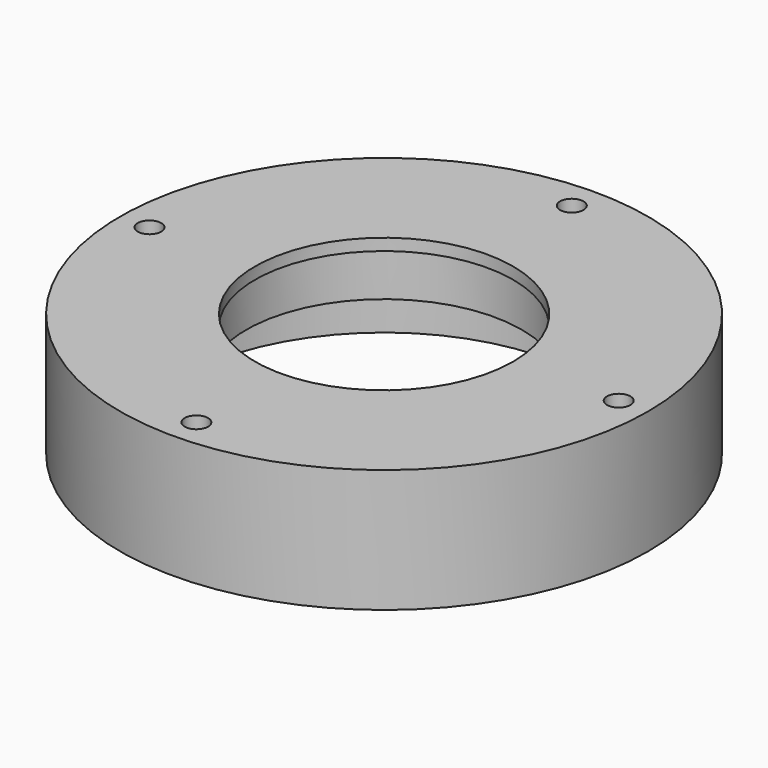
from build123d import *

# Parameters (mm, degrees)
F0_R        = 23.5
F0_R_2      = 22
F1_DEPTH    = 2
F2_R        = 45
F2_R_2      = 23.5
F3_DEPTH    = 10
F4_R        = 35
F4_R_2      = 27.5
F5_DEPTH    = 6
F5_FACE_R   = 45
F5_FACE_R_2 = 35
F6_DEPTH    = 11
F7_R        = 2
F8_DEPTH    = 21.001


with BuildPart() as f1:
    # F0 (on Top) → F1 (new body)
    with BuildSketch(Plane.XY):
        with Locations((10, 29.8)):
            Circle(F0_R)
        with Locations((10, 29.8)):
            Circle(F0_R_2, mode=Mode.SUBTRACT)
    extrude(amount=F1_DEPTH)

    # F2 (on face) → F3 (join)
    with BuildSketch(Plane.XY.offset(2)):
        with Locations((10, 29.8)):
            Circle(F2_R)
        with Locations((10, 29.8)):
            Circle(F2_R_2, mode=Mode.SUBTRACT)
    extrude(amount=-F3_DEPTH)

    # F4 (on face) → F5 (cut)
    with BuildSketch(Plane(origin=(0, 0, -8), x_dir=(1, 0, 0), z_dir=(0, 0, -1))):
        with Locations((10, -29.8)):
            Circle(F4_R)
        with Locations((10, -29.8)):
            Circle(F4_R_2, mode=Mode.SUBTRACT)
    extrude(amount=-F5_DEPTH, mode=Mode.SUBTRACT)

    # F5_face (on face) → F6 (join)
    with BuildSketch(Plane(origin=(10, 29.8, -8), x_dir=(1, 0, 0), z_dir=(0, 0, -1))):
        Circle(F5_FACE_R)
        Circle(F5_FACE_R_2, mode=Mode.SUBTRACT)
    extrude(amount=F6_DEPTH)

    # F7 (on face) → F8 (cut, through all)
    with BuildSketch(Plane(origin=(0, 0, -19), x_dir=(1, 0, 0), z_dir=(0, 0, -1))):
        with Locations((10, 10.2)):
            Circle(F7_R)
        with Locations((-30, -29.8)):
            Circle(F7_R)
        with Locations((10, -69.8)):
            Circle(F7_R)
        with Locations((50, -29.8)):
            Circle(F7_R)
    extrude(amount=-F8_DEPTH, mode=Mode.SUBTRACT)


solid = f1.part
